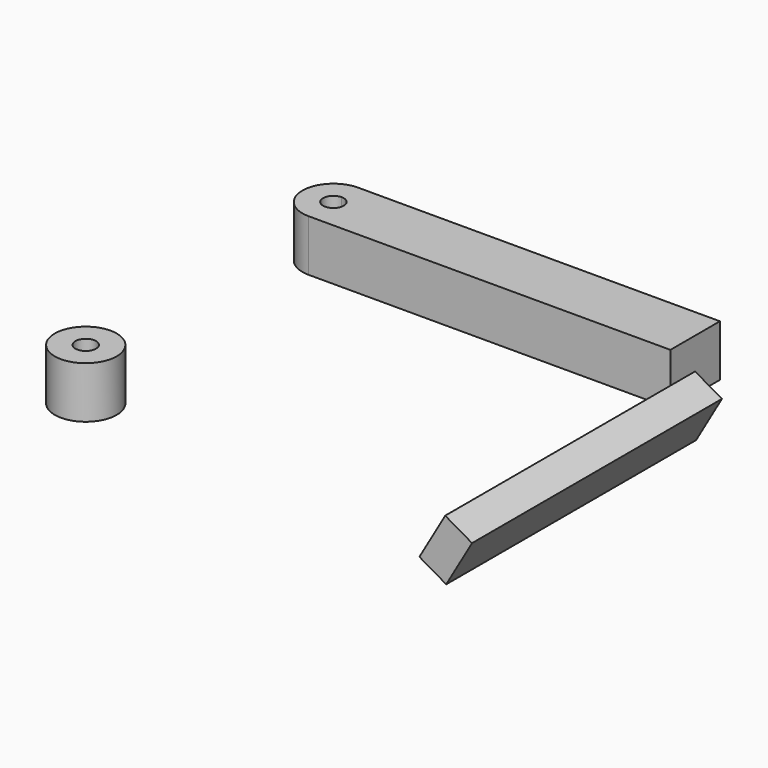
from build123d import *

# Parameters (mm, degrees)
F1_DEPTH = 5
F0_R     = 3
F0_R_2   = 1
F2_W     = 30.2677619159
F2_H     = 5
F4_DEPTH = 3
F5_ANGLE = -30


with BuildPart() as f1:
    # F0 (on Top) → F1 (new body)
    with BuildSketch(Plane.XY):
        with BuildLine():
            ThreePointArc((-12, 16), (-11.2928932188, 15.7071067812), (-11, 15))
            ThreePointArc((-11, 15), (-11.2928932188, 14.2928932188), (-12, 14))
            Line((-12, 14), (-12, 12))
            ThreePointArc((-12, 12), (-9.8786796564, 12.8786796564), (-9, 15))
            ThreePointArc((-9, 15), (-9.8786796564, 17.1213203436), (-12, 18))
            Line((-12, 18), (-12, 16))
        make_face()
        with BuildLine():
            ThreePointArc((-12, 14), (-13, 15), (-12, 16))
            Line((-12, 16), (-12, 18))
            ThreePointArc((-12, 18), (-15, 15), (-12, 12))
            Line((-12, 12), (-12, 14))
        make_face()
        with BuildLine():
            Line((23.052602736, 18), (-12, 18))
            ThreePointArc((-12, 18), (-9.8786796564, 17.1213203436), (-9, 15))
            ThreePointArc((-9, 15), (-9.8786796564, 12.8786796564), (-12, 12))
            Line((-12, 12), (23.052602736, 12))
            Line((23.052602736, 12), (23.052602736, 18))
        make_face()
    extrude(amount=F1_DEPTH)


with BuildPart() as f1b:
    # F0 (on Top) → F1, piece 2 (new body)
    with BuildSketch(Plane.XY):
        with Locations((-12, -15)):
            Circle(F0_R)
        with Locations((-12, -15)):
            Circle(F0_R_2, mode=Mode.SUBTRACT)
    extrude(amount=F1_DEPTH)


with BuildPart() as f4:
    # F2 (on face) → F4 (new body)
    with BuildSketch(Plane.YZ.offset(23.052602736)):
        with Locations((-3.133880958, 2.5)):
            Rectangle(F2_W, F2_H)
    extrude(amount=F4_DEPTH)


with BuildPart() as f4_1:
    # F5: moved
    add(f4.part.rotate(Axis((22.2755689174, -3.8775624707, 0), (0, -1, 0)), F5_ANGLE))


solid = Compound([f1.part, f1b.part, f4_1.part])
